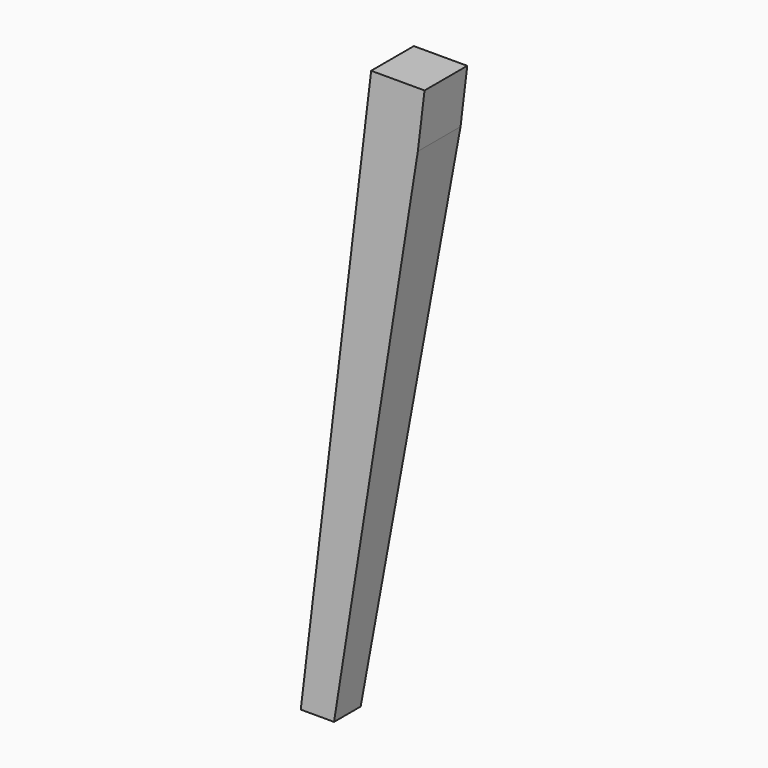
from build123d import *

# Parameters (mm, degrees)
F1_DEPTH = 70
F3_DEPTH = 240


with BuildPart() as f1:
    # F0 (on Front) → F1 (new body)
    with BuildSketch(Plane.XZ):
        Polygon((29.369261, 420), (0, 0), (25, 0), (66.669864, 380), (69.466937, 420), align=None)
    extrude(amount=-F1_DEPTH)

    # F2 (on Right) → F3 (cut)
    with BuildSketch(Plane.YZ):
        Polygon((0, 420), (0, 0), (29.369261, 420), align=None)
        Polygon((66.669864, 380), (25, 0), (81.181459, -12.978577), (73.105134, 420), (69.466937, 420), align=None)
    extrude(amount=F3_DEPTH, mode=Mode.SUBTRACT)


solid = f1.part
